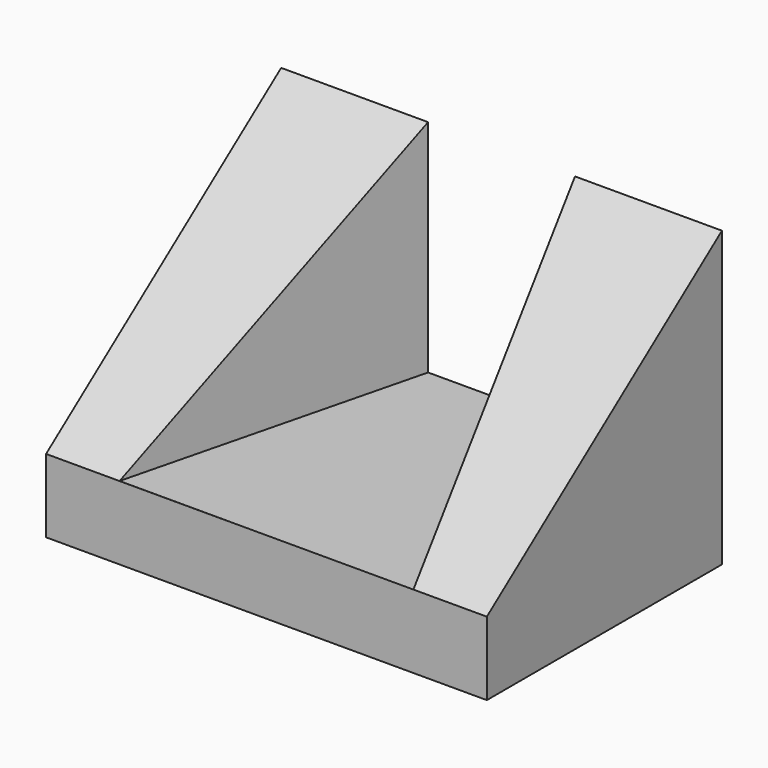
from build123d import *

# Parameters (mm, degrees)
F0_W      = 60
F0_H      = 40
F1_DEPTH  = 40
F3_DEPTH  = 30
F6_DEPTH  = 25
F4_W      = 10
F4_H      = 30
F7_DEPTH  = 25
F10_DEPTH = 25
F8_W      = 10
F8_H      = 30
F11_DEPTH = 25


with BuildPart() as f1:
    # F0 (on Front) → F1 (new body)
    with BuildSketch(Plane.XZ):
        with Locations((30, 20)):
            Rectangle(F0_W, F0_H)
    extrude(amount=F1_DEPTH)

    # F2 (on face) → F3 (cut)
    with BuildSketch(Plane.XY.offset(40)):
        Polygon((40, 0), (20, 0), (10, -40), (50, -40), align=None)
    extrude(amount=-F3_DEPTH, mode=Mode.SUBTRACT)

    # F5 (on face) → F6 (cut)
    with BuildSketch(Plane(origin=(0, 0, 0), x_dir=(0, -1, 0), z_dir=(-1, 0, 0))):
        Polygon((40, 40), (0, 40), (40, 9.9955964833), align=None)
    extrude(amount=-F6_DEPTH, mode=Mode.SUBTRACT)

    # F4 (on face) → F7 (cut)
    with BuildSketch(Plane.XZ.offset(40)):
        with Locations((5, 25)):
            Rectangle(F4_W, F4_H)
    extrude(amount=F7_DEPTH, mode=Mode.SUBTRACT)

    # F9 (on face) → F10 (cut)
    with BuildSketch(Plane.YZ.offset(60)):
        Polygon((-40, 10.0021371618), (0, 40), (-40, 40), align=None)
    extrude(amount=-F10_DEPTH, mode=Mode.SUBTRACT)

    # F8 (on face) → F11 (cut)
    with BuildSketch(Plane.XZ.offset(40)):
        with Locations((55, 25)):
            Rectangle(F8_W, F8_H)
    extrude(amount=F11_DEPTH, mode=Mode.SUBTRACT)


solid = f1.part
